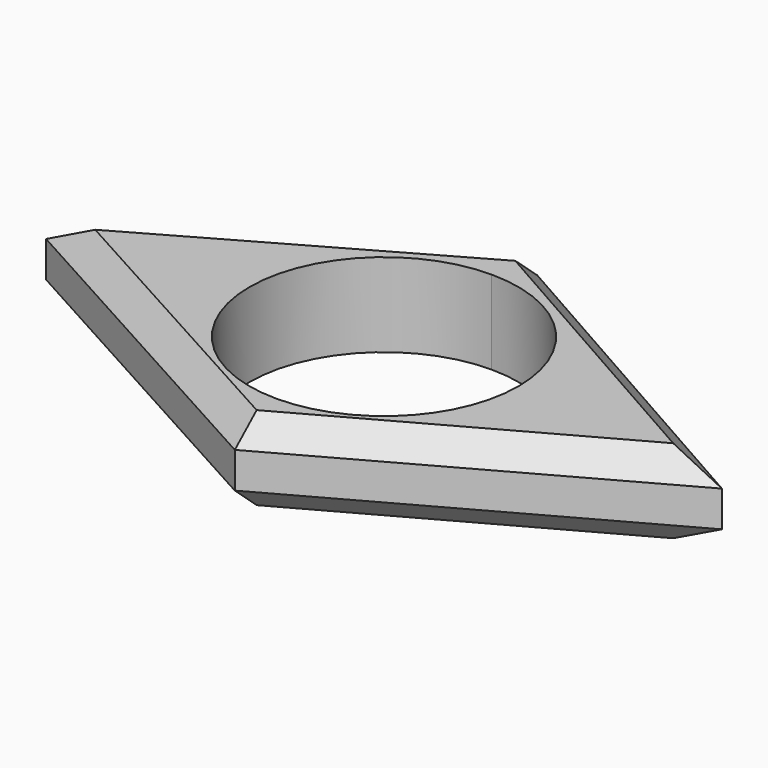
from build123d import *

# Parameters (mm, degrees)
F1_DEPTH = 7
F2_SIZE  = 2


with BuildPart() as f1:
    # F0 (on Top) → F1 (new body)
    with BuildSketch(Plane.XY):
        with BuildLine():
            ThreePointArc((-4.726661, 9.091457), (3.22829, 5.796408), (6.523339, -2.158543))
            ThreePointArc((6.523339, -2.158543), (3.22829, -10.113494), (-4.726661, -13.408543))
            Line((-4.726661, -13.408543), (-4.726661, -17.761571))
            Line((-4.726661, -17.761571), (23.548938, -2.158543))
            Line((23.548938, -2.158543), (-4.726661, 13.876327))
            Line((-4.726661, 13.876327), (-4.726661, 9.091457))
        make_face()
        with BuildLine():
            ThreePointArc((-4.726661, -13.408543), (-15.976661, -2.158543), (-4.726661, 9.091457))
            Line((-4.726661, 9.091457), (-4.726661, 13.876327))
            Line((-4.726661, 13.876327), (-33.002261, -2.158543))
            Line((-33.002261, -2.158543), (-4.726661, -17.761571))
            Line((-4.726661, -17.761571), (-4.726661, -13.408543))
        make_face()
    extrude(amount=F1_DEPTH)

    # F2
    f2_edges = [f1.edges().sort_by_distance(p)[0] for p in [
        (9.411138, 5.858892, 7),
        (9.411138, 5.858892, 0),
        (-18.864461, 5.858892, 7),
        (-18.864461, 5.858892, 0),
        (-18.864461, -9.960057, 7),
        (-18.864461, -9.960057, 0),
        (9.411138, -9.960057, 0),
        (9.411138, -9.960057, 7),
    ]]
    chamfer(f2_edges, length=F2_SIZE)


solid = f1.part
